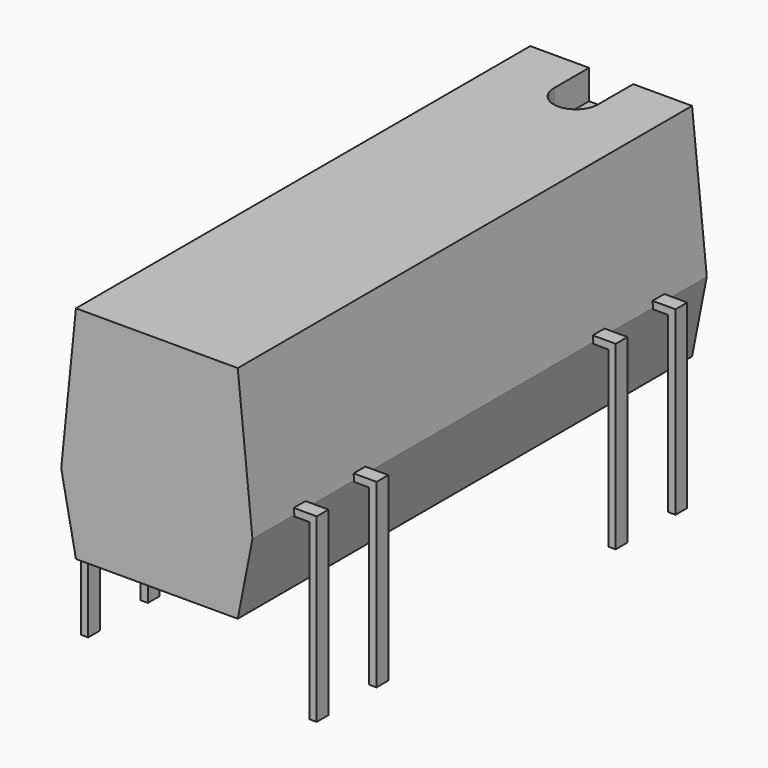
from build123d import *

# Parameters (mm, degrees)
PAD003_DEPTH = 0.25
PAD_DEPTH    = 9.65
POCKET_DEPTH = 1
PAD002_DEPTH = 0.25
PAD001_DEPTH = 0.25
PAD004_DEPTH = 0.25


with BuildPart() as pad003:
    # Sketch004 → Pad003 (new body, symmetric)
    with BuildSketch(Plane.XZ.offset(2.54)):
        Polygon((-0.2, -3.2), (0.05, -3.2), (0.05, 2.7), (7.57, 2.7), (7.57, -3.2), (7.82, -3.2), (7.82, 2.95), (-0.2, 2.95), align=None)
    extrude(amount=PAD003_DEPTH, both=True)


with BuildPart() as pocket:
    # Sketch → Pad (new body, symmetric)
    with BuildSketch(Plane.XZ.offset(7.62)):
        Polygon((1.06, 0.2), (6.56, 0.2), (7.06, 2.75), (6.56, 7.7), (1.06, 7.7), (0.56, 2.75), align=None)
    extrude(amount=PAD_DEPTH, both=True)

    # Sketch003 → Pocket (cut)
    with BuildSketch(Plane(origin=(0, -7.62, 7.7), x_dir=(-1, 0, 0), z_dir=(0, 0, 1))):
        with BuildLine():
            ThreePointArc((-3.06, -8.15), (-3.81, -7.4), (-4.56, -8.15))
            Line((-4.56, -8.15), (-4.56, -9.65))
            Line((-4.56, -9.65), (-3.06, -9.65))
            Line((-3.06, -9.65), (-3.06, -8.15))
        make_face()
    extrude(amount=-POCKET_DEPTH, mode=Mode.SUBTRACT)


with BuildPart() as pad002:
    # Sketch002 → Pad002 (new body, symmetric)
    with BuildSketch(Plane.XZ.offset(15.24)):
        Polygon((-0.2, -3.2), (0.05, -3.2), (0.05, 2.7), (7.57, 2.7), (7.57, -3.2), (7.82, -3.2), (7.82, 2.95), (-0.2, 2.95), align=None)
    extrude(amount=PAD002_DEPTH, both=True)


with BuildPart() as pad001:
    # Sketch001 → Pad001 (new body, symmetric)
    with BuildSketch(Plane.XZ):
        Polygon((-0.2, -3.2), (0.05, -3.2), (0.05, 2.7), (7.57, 2.7), (7.57, -3.2), (7.82, -3.2), (7.82, 2.95), (-0.2, 2.95), align=None)
    extrude(amount=PAD001_DEPTH, both=True)


with BuildPart() as obj1:
    # Sketch005 → Pad004 (new body, symmetric)
    with BuildSketch(Plane.XZ.offset(12.7)):
        Polygon((-0.2, -3.2), (0.05, -3.2), (0.05, 2.7), (7.57, 2.7), (7.57, -3.2), (7.82, -3.2), (7.82, 2.95), (-0.2, 2.95), align=None)
    extrude(amount=PAD004_DEPTH, both=True)

    add(pad003.part)
    add(pocket.part)
    add(pad002.part)
    add(pad001.part)


solid = obj1.part
